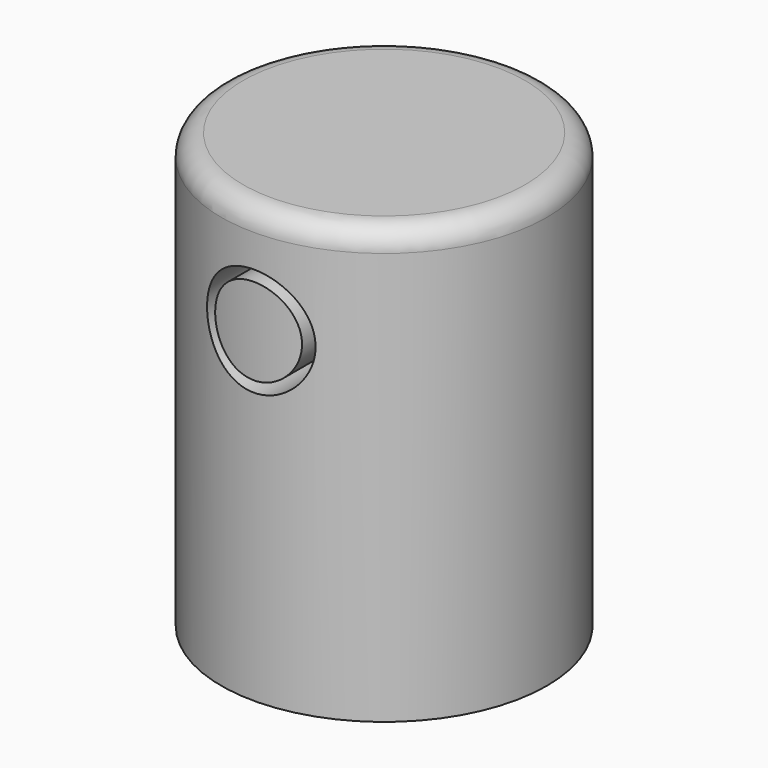
from build123d import *

# Parameters (mm, degrees)
F0_R      = 12.5
F1_DEPTH  = 20
F2_R      = 9
F3_DEPTH  = 10
F4_R      = 7.5
F5_DEPTH  = 20
F6_R      = 2
F7_SIZE   = 1
F8_R      = 1
F9_R      = 2.5
F9_R_2    = 2
F10_DEPTH = 25
F11_R     = 3.5
F11_R_2   = 2.5
F12_DEPTH = 50
F13_R     = 34.8132917853
F13_R_2   = 3.5
F13_R_3   = 2.5
F14_DEPTH = 80


with BuildPart() as f1:
    # F0 (on Top) → F1 (new body)
    with BuildSketch(Plane.XY):
        Circle(F0_R)
    extrude(amount=F1_DEPTH)

    # F2 (on face) → F3 (join)
    with BuildSketch(Plane.XY.offset(20)):
        Circle(F2_R)
    extrude(amount=F3_DEPTH)

    # F4 (on face) → F5 (join)
    with BuildSketch(Plane.XY.offset(30)):
        Circle(F4_R)
    extrude(amount=F5_DEPTH)

    # F6
    f6_edges = [f1.edges().sort_by_distance(p)[0] for p in [
        (-12.5, 0, 20),
    ]]
    fillet(f6_edges, radius=F6_R)

    # F7
    f7_edges = [f1.edges().sort_by_distance(p)[0] for p in [
        (-9, 0, 30),
    ]]
    chamfer(f7_edges, length=F7_SIZE)

    # F8
    f8_edges = [f1.edges().sort_by_distance(p)[0] for p in [
        (-7.5, 0, 50),
    ]]
    fillet(f8_edges, radius=F8_R)

    # F9 (on Front) → F10 (cut)
    with BuildSketch(Plane.XZ):
        with Locations((0, 45)):
            Circle(F9_R)
        with Locations((0, 45)):
            Circle(F9_R_2, mode=Mode.SUBTRACT)
    extrude(amount=F10_DEPTH, mode=Mode.SUBTRACT)

    # F11 (on face) → F12 (join)
    with BuildSketch(Plane(origin=(0, 0, 0), x_dir=(1, 0, 0), z_dir=(0, 0, -1))):
        Circle(F11_R)
        Circle(F11_R_2, mode=Mode.SUBTRACT)
    extrude(amount=F12_DEPTH)

    # F13 (on face) → F14 (cut, through all)
    with BuildSketch(Plane(origin=(0, 0, -50), x_dir=(1, 0, 0), z_dir=(0, 0, -1))):
        Circle(F13_R)
        Circle(F13_R_2, mode=Mode.SUBTRACT)
        Circle(F13_R_2)
        Circle(F13_R_3, mode=Mode.SUBTRACT)
        Circle(F13_R_3)
    extrude(amount=-F14_DEPTH, mode=Mode.SUBTRACT)


solid = f1.part
